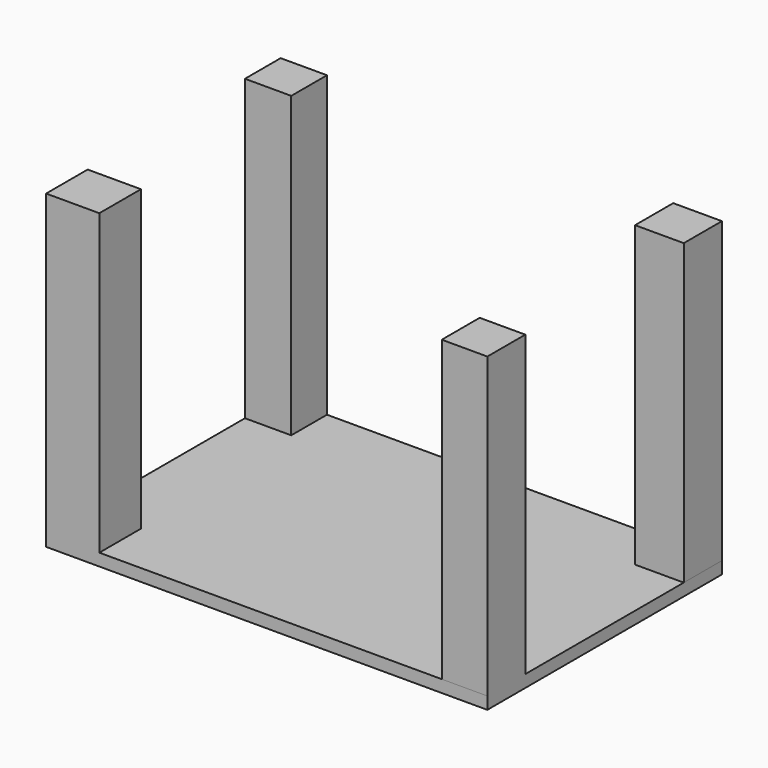
from build123d import *

# Parameters (mm, degrees)
F0_W     = 229.52804
F0_H     = 152.525924
F1_DEPTH = 6.35
F2_W     = 23.711868
F2_H     = 24.674061
F3_DEPTH = 155.448
F4_W     = 25.340267
F4_H     = 24.805527
F5_DEPTH = 155.448
F6_W     = 27.706921
F6_H     = 27.038488
F6_W_2   = 24.087668
F6_H_2   = 23.228791
F7_DEPTH = 155.448


with BuildPart() as f1:
    # F0 (on Top) → F1 (new body)
    with BuildSketch(Plane.XY):
        with Locations((8.701302, -4.533436)):
            Rectangle(F0_W, F0_H)
    extrude(amount=F1_DEPTH)

    # F2 (on face) → F3 (join)
    with BuildSketch(Plane.XY.offset(6.35)):
        with Locations((111.609388, -68.459367)):
            Rectangle(F2_W, F2_H)
    extrude(amount=F3_DEPTH)

    # F4 (on face) → F5 (join)
    with BuildSketch(Plane.XY.offset(6.35)):
        with Locations((110.795188, 59.326762)):
            Rectangle(F4_W, F4_H)
    extrude(amount=F5_DEPTH)

    # F6 (on face) → F7 (join)
    with BuildSketch(Plane.XY.offset(6.35)):
        with Locations((-92.209257, -67.277154)):
            Rectangle(F6_W, F6_H)
        with Locations((-94.018884, 60.11513)):
            Rectangle(F6_W_2, F6_H_2)
    extrude(amount=F7_DEPTH)


solid = f1.part
